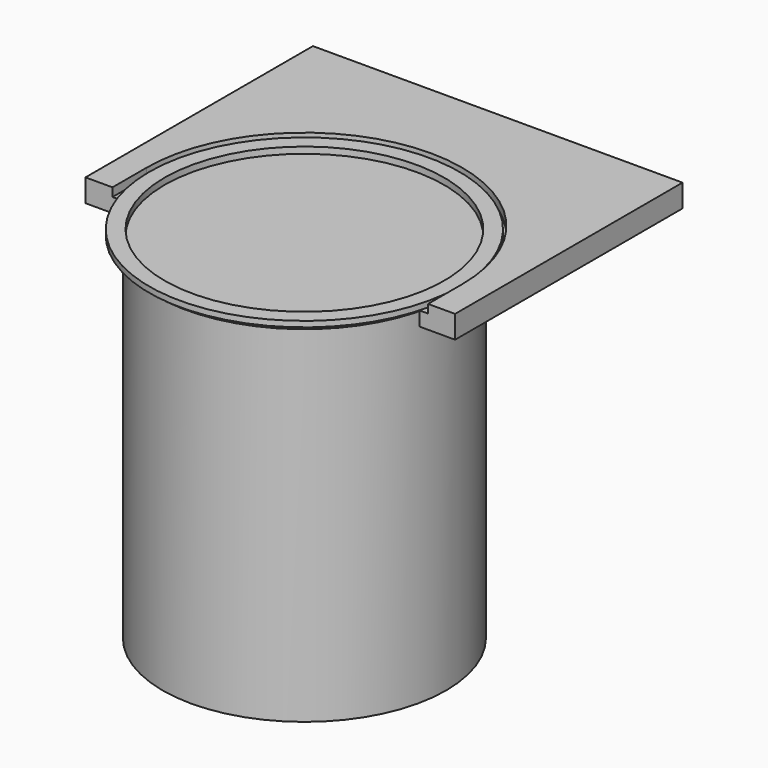
from build123d import *

# Parameters (mm, degrees)
F5_DEPTH = 5
F7_DEPTH = 3


with BuildPart() as f1:
    # F0 (on Front) → F1 (revolve)
    with BuildSketch(Plane.XZ):
        Polygon((-49.575, 0), (0, 0), (0, 1.37), (-49.15, 1.37), (-49.15, 3.62), (-54.575, 3.62), (-54.575, 1.62), (-49.575, 1.62), align=None)
    revolve(axis=Axis((0, 0, 25.178327), (0, 0, 1)))


with BuildPart() as f3:
    # F2 (on Front) → F3 (revolve)
    with BuildSketch(Plane.XZ):
        Polygon((-49.87, -123), (0, -123), (0, -122.7), (-49.57, -122.7), (-49.57, 0), (-52, 0), (-52, -0.3), (-49.87, -0.3), align=None)
    revolve(axis=Axis((0, 0, -61.5), (0, 0, -1)))


with BuildPart() as f5:
    # F4 (on face) → F5 (new body)
    with BuildSketch(Plane(origin=(0, 0, 1.62), x_dir=(1, 0, 0), z_dir=(0, 0, -1))):
        with BuildLine():
            ThreePointArc((52.5, 0), (0, -52.5), (-52.5, 0))
            Line((-52.5, 0), (-52.5, 15))
            Line((-52.5, 15), (-65, 15))
            Line((-65, 15), (-65, -85))
            Line((-65, -85), (65, -85))
            Line((65, -85), (65, 15))
            Line((65, 15), (52.5, 15))
            Line((52.5, 15), (52.5, 0))
        make_face()
    extrude(amount=F5_DEPTH)

    # F6 (on face) → F7 (join)
    with BuildSketch(Plane.XY.offset(1.62)):
        with BuildLine():
            ThreePointArc((-55.5, 0), (0, 55.5), (55.5, 0))
            Line((55.5, 0), (55.5, -15))
            Line((55.5, -15), (65, -15))
            Line((65, -15), (65, 85))
            Line((65, 85), (-65, 85))
            Line((-65, 85), (-65, -15))
            Line((-65, -15), (-55.5, -15))
            Line((-55.5, -15), (-55.5, 0))
        make_face()
    extrude(amount=F7_DEPTH)


solid = Compound([f1.part, f3.part, f5.part])
